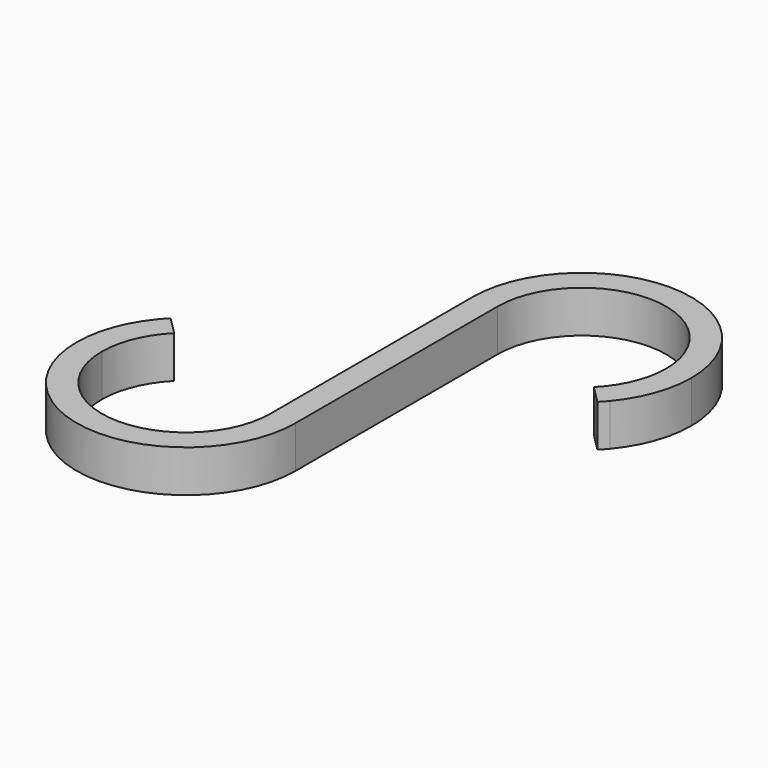
from build123d import *

# Parameters (mm, degrees)
F1_DEPTH = 5


with BuildPart() as f1:
    # F0 (on Top) → F1 (new body)
    with BuildSketch(Plane.XY):
        with BuildLine():
            Line((-10, -30), (-10, -8.3066238629))
            ThreePointArc((-10, -8.3066238629), (-12.2270192606, -4.4158804332), (-13, 0))
            Line((-13, 0), (-13, -21.6933761371))
            ThreePointArc((-13, -21.6933761371), (-10.7729807394, -25.5841195668), (-10, -30))
        make_face()
        with BuildLine():
            Line((-10, -8.3066238629), (-10, 0))
            Line((-10, 0), (-13, 0))
            ThreePointArc((-13, 0), (-12.2270192606, -4.4158804332), (-10, -8.3066238629))
        make_face()
        with BuildLine():
            Line((-13, -30), (-10, -30))
            ThreePointArc((-10, -30), (-10.7729807394, -25.5841195668), (-13, -21.6933761371))
            Line((-13, -21.6933761371), (-13, -30))
        make_face()
        with BuildLine():
            ThreePointArc((-36, -30), (-23, -43), (-10, -30))
            Line((-10, -30), (-13, -30))
            ThreePointArc((-13, -30), (-23, -40), (-33, -30))
            Line((-33, -30), (-36, -30))
        make_face()
        with BuildLine():
            ThreePointArc((-10, 0), (0, 10), (10, 0))
            Line((10, 0), (10, -8.3066238629))
            ThreePointArc((10, -8.3066238629), (12.2270192606, -4.4158804332), (13, 0))
            ThreePointArc((13, 0), (0, 13), (-13, 0))
            Line((-13, 0), (-10, 0))
        make_face()
        with BuildLine():
            ThreePointArc((-33, -21.6933761371), (-35.2270192606, -25.5841195668), (-36, -30))
            Line((-36, -30), (-33, -30))
            Line((-33, -30), (-33, -21.6933761371))
        make_face()
        with BuildLine():
            Line((-33, -21.6933761371), (-33, -30))
            ThreePointArc((-33, -30), (-32.2387953251, -26.1731656763), (-30.0710678119, -22.9289321881))
            Line((-30.0710678119, -22.9289321881), (-32.1923881554, -20.8076118446))
            ThreePointArc((-32.1923881554, -20.8076118446), (-32.6064085574, -21.2411807515), (-33, -21.6933761371))
        make_face()
        with BuildLine():
            Line((10, -8.3066238629), (10, 0))
            ThreePointArc((10, 0), (9.2387953251, -3.8268343237), (7.0710678119, -7.0710678119))
            Line((7.0710678119, -7.0710678119), (9.1923881554, -9.1923881554))
            ThreePointArc((9.1923881554, -9.1923881554), (9.6064085574, -8.7588192485), (10, -8.3066238629))
        make_face()
    extrude(amount=F1_DEPTH)


solid = f1.part
